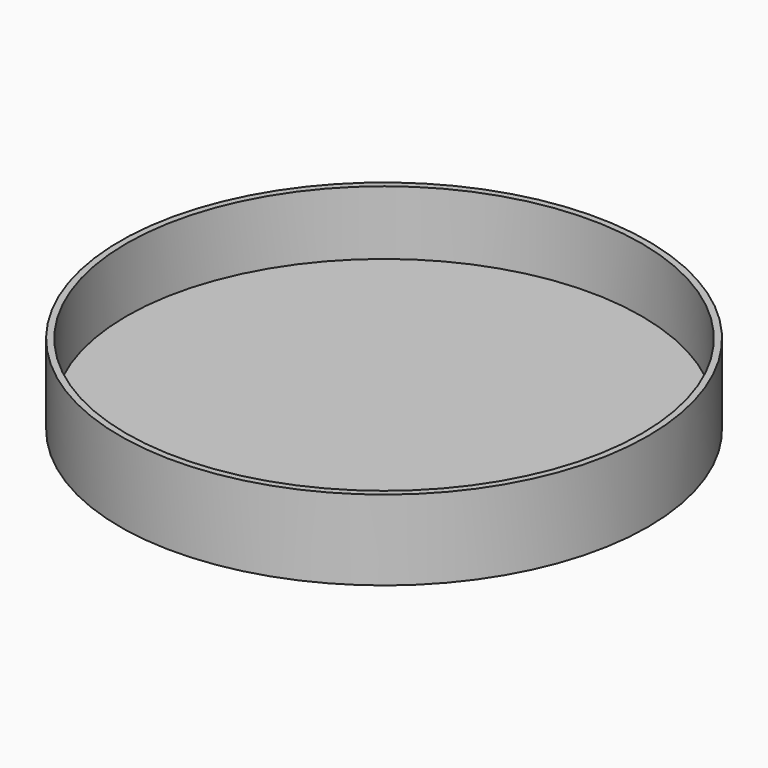
from build123d import *

# Parameters (mm, degrees)
SKETCH_R     = 82.5
PAD_DEPTH    = 25
SKETCH001_R  = 80.5
POCKET_DEPTH = 20


with BuildPart() as part:
    # Sketch → Pad (new body)
    with BuildSketch(Plane.XY):
        Circle(SKETCH_R)
    extrude(amount=PAD_DEPTH)

    # Sketch001 (on Face3 of Pad) → Pocket (cut)
    with BuildSketch(Plane.XY.offset(25)):
        Circle(SKETCH001_R)
    extrude(amount=-POCKET_DEPTH, mode=Mode.SUBTRACT)


solid = part.part
